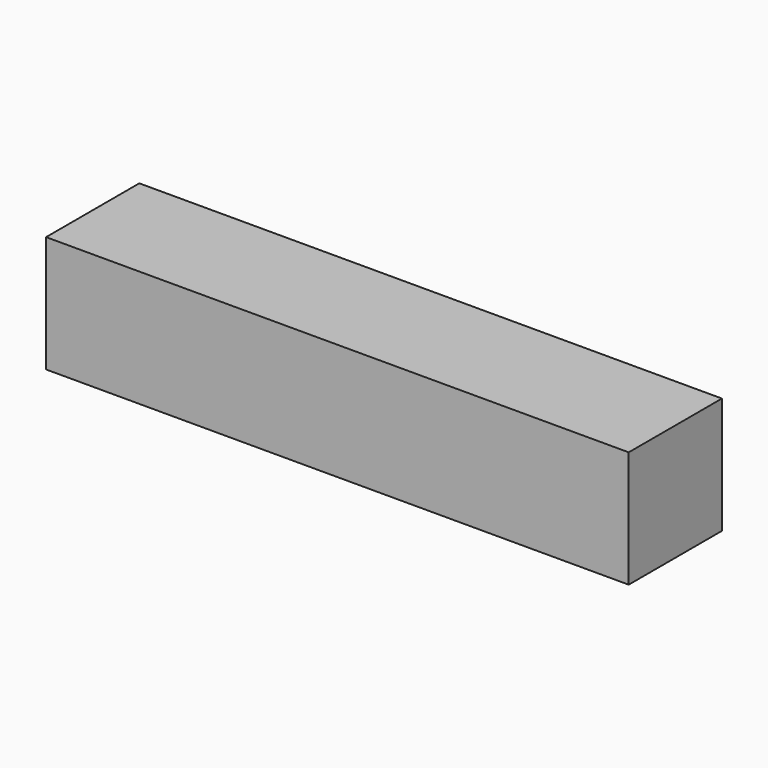
from build123d import *

# Parameters (mm, degrees)
BOX_W     = 1000
BOX_H     = 200
BOX_DEPTH = 200


with BuildPart() as part:
    # Box → Box (new body)
    with BuildSketch(Plane.XY):
        with Locations((500, 100)):
            Rectangle(BOX_W, BOX_H)
    extrude(amount=BOX_DEPTH)


solid = part.part
